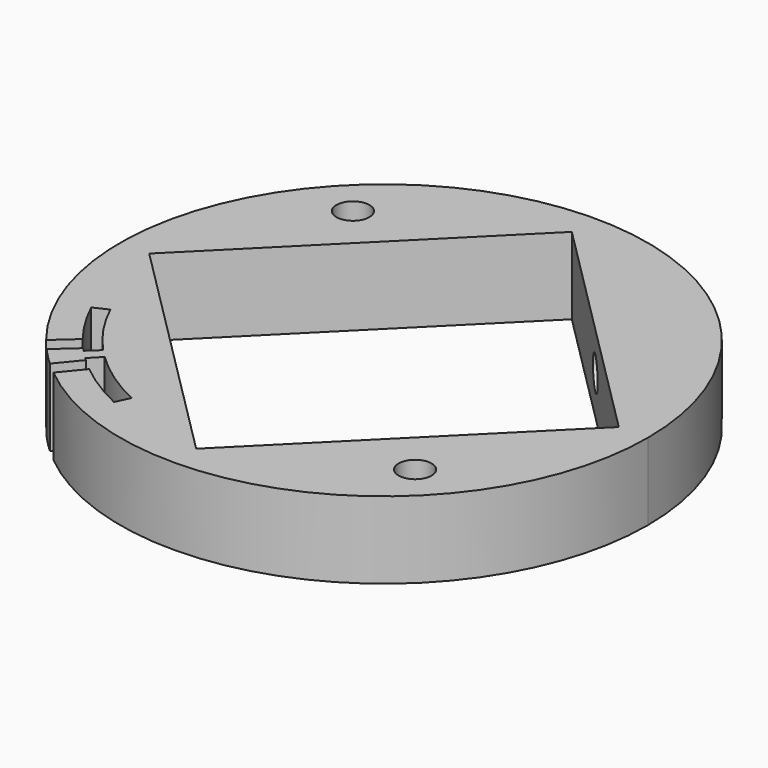
from build123d import *

# Parameters (mm, degrees)
CYLINDER1831_R               = 1.5
CYLINDER1831_DEPTH           = 50
CYLINDER1831_ROLL_ANGLE      = -22.499828
CYLINDER1831_PITCH_ANGLE     = 89.998999
CYLINDER1831_PLACEMENT_ANGLE = 22.499828
CYLINDER1835_R               = 3
CYLINDER1835_DEPTH           = 10
CYLINDER1835_PITCH_ANGLE     = 90
CYLINDER1835_PLACEMENT_ANGLE = 45
CYLINDER1832_R               = 20
CYLINDER1832_DEPTH           = 7
BOX735_W                     = 1.4
BOX735_H                     = 60
BOX735_DEPTH                 = 7
BOX735_PLACEMENT_ANGLE       = 5.7
BOX734_W                     = 1.4
BOX734_H                     = 60
BOX734_DEPTH                 = 7
BOX734_PLACEMENT_ANGLE       = 3
CUT548_PLACEMENT_ANGLE       = 134.9
BOX738_W                     = 60
BOX738_H                     = 60
BOX738_DEPTH                 = 7
BOX738_PLACEMENT_ANGLE       = 1
BOX733_W                     = 60
BOX733_H                     = 60
BOX733_DEPTH                 = 7
BOX733_PLACEMENT_ANGLE       = 2
BOX739_W                     = 120
BOX739_H                     = 60
BOX739_DEPTH                 = 7
TUBE094_R                    = 21.4
TUBE094_R_2                  = 20
TUBE094_DEPTH                = 7
BOX732_W                     = 60
BOX732_H                     = 60
BOX732_DEPTH                 = 7
BOX732_PLACEMENT_ANGLE       = 20
BOX731_W                     = 60
BOX731_H                     = 60
BOX731_DEPTH                 = 7
BOX731_PLACEMENT_ANGLE       = 20
BOX737_W                     = 120
BOX737_H                     = 60
BOX737_DEPTH                 = 7
TUBE093_R                    = 21.4
TUBE093_R_2                  = 20
TUBE093_DEPTH                = 7
CUT552_PLACEMENT_ANGLE       = 135
CYLINDER1834_R               = 1.5
CYLINDER1834_DEPTH           = 20
CYLINDER1834_PLACEMENT_ANGLE = 135
CYLINDER1833_R               = 1.5
CYLINDER1833_DEPTH           = 20
CYLINDER1833_PLACEMENT_ANGLE = 45
BOX736_W                     = 30.2
BOX736_H                     = 30.2
BOX736_DEPTH                 = 100
BOX736_PLACEMENT_ANGLE       = 45
CYLINDER1836_R               = 24
CYLINDER1836_DEPTH           = 7


with BuildPart() as obj1:
    # Cylinder1831 → Cylinder1831 (new body)
    with BuildSketch(Plane.XY):
        Circle(CYLINDER1831_R)
    extrude(amount=CYLINDER1831_DEPTH)


with BuildPart() as obj1_1:
    # Cylinder1831 roll: moved
    add(obj1.part.rotate(Axis((0, 0, 0), (1, 0, 0)), CYLINDER1831_ROLL_ANGLE))


with BuildPart() as obj1_2:
    # Cylinder1831 pitch: moved
    add(obj1_1.part.rotate(Axis((0, 0, 0), (0, 1, 0)), CYLINDER1831_PITCH_ANGLE))


with BuildPart() as obj1_3:
    # Cylinder1831 placement: moved
    add(obj1_2.part.moved(Location((0, 0, -18.5))).rotate(Axis((0, 0, -18.5), (0, 0, 1)), CYLINDER1831_PLACEMENT_ANGLE))


with BuildPart() as obj2:
    # Cylinder1835 → Cylinder1835 (new body)
    with BuildSketch(Plane.XY):
        Circle(CYLINDER1835_R)
    extrude(amount=CYLINDER1835_DEPTH)


with BuildPart() as obj2_1:
    # Cylinder1835 pitch: moved
    add(obj2.part.rotate(Axis((0, 0, 0), (0, 1, 0)), CYLINDER1835_PITCH_ANGLE))


with BuildPart() as obj2_2:
    # Cylinder1835 placement: moved
    add(obj2_1.part.moved(Location((14.849242, 14.849242, -18.5))).rotate(Axis((14.849242, 14.849242, -18.5), (0, 0, 1)), CYLINDER1835_PLACEMENT_ANGLE))


with BuildPart() as obj3:
    # Cylinder1832 → Cylinder1832 (new body)
    with BuildSketch(Plane.XY.offset(-22)):
        Circle(CYLINDER1832_R)
    extrude(amount=CYLINDER1832_DEPTH)


with BuildPart() as krychle735:
    # Box735 → Box735 (new body)
    with BuildSketch(Plane.XY):
        with Locations((0.7, 30)):
            Rectangle(BOX735_W, BOX735_H)
    extrude(amount=BOX735_DEPTH)


with BuildPart() as krychle735_1:
    # Box735 placement: moved
    add(krychle735.part.moved(Location((0, 0, -22))).rotate(Axis((0, 0, -22), (0, 0, 1)), BOX735_PLACEMENT_ANGLE))


with BuildPart() as cut548:
    # Box734 → Box734 (new body)
    with BuildSketch(Plane.XY):
        with Locations((0.7, 30)):
            Rectangle(BOX734_W, BOX734_H)
    extrude(amount=BOX734_DEPTH)


with BuildPart() as cut548_1:
    # Box734 placement: moved
    add(cut548.part.moved(Location((0, 0, -22))).rotate(Axis((0, 0, -22), (0, 0, -1)), BOX734_PLACEMENT_ANGLE))

    # Compound905: union Krychle735
    add(krychle735_1.part)

    # Cut548: cut obj3
    add(obj3.part, mode=Mode.SUBTRACT)


with BuildPart() as cut548_2:
    # Cut548 placement: moved
    add(cut548_1.part.rotate(Axis((0, 0, 0), (0, 0, 1)), CUT548_PLACEMENT_ANGLE))


with BuildPart() as krychle738:
    # Box738 → Box738 (new body)
    with BuildSketch(Plane.XY):
        with Locations((30, 30)):
            Rectangle(BOX738_W, BOX738_H)
    extrude(amount=BOX738_DEPTH)


with BuildPart() as krychle738_1:
    # Box738 placement: moved
    add(krychle738.part.moved(Location((-59.990862, -1.047144, -22))).rotate(Axis((-59.990862, -1.047144, -22), (0, 0, 1)), BOX738_PLACEMENT_ANGLE))


with BuildPart() as compound904:
    # Box733 → Box733 (new body)
    with BuildSketch(Plane.XY):
        with Locations((30, 30)):
            Rectangle(BOX733_W, BOX733_H)
    extrude(amount=BOX733_DEPTH)


with BuildPart() as compound904_1:
    # Box733 placement: moved
    add(compound904.part.moved(Location((0, 0, -22))).rotate(Axis((0, 0, -22), (0, 0, -1)), BOX733_PLACEMENT_ANGLE))

    # Compound904: union Krychle738
    add(krychle738_1.part)


with BuildPart() as krychle739:
    # Box739 → Box739 (new body)
    with BuildSketch(Plane(origin=(-60, -60, -22), x_dir=(1, 0, 0), z_dir=(0, 0, 1))):
        with Locations((60, 30)):
            Rectangle(BOX739_W, BOX739_H)
    extrude(amount=BOX739_DEPTH)


with BuildPart() as cut554:
    # Tube094 → Tube094 (new body)
    with BuildSketch(Plane.XY.offset(-22)):
        Circle(TUBE094_R)
        Circle(TUBE094_R_2, mode=Mode.SUBTRACT)
    extrude(amount=TUBE094_DEPTH)

    # Cut555: cut Krychle739
    add(krychle739.part, mode=Mode.SUBTRACT)

    # Cut554: cut Compound904
    add(compound904_1.part, mode=Mode.SUBTRACT)


with BuildPart() as cut554_1:
    # Cut554 placement: moved
    add(cut554.part.moved(Location((0, 0, -7))))


with BuildPart() as krychle732:
    # Box732 → Box732 (new body)
    with BuildSketch(Plane.XY):
        with Locations((30, 30)):
            Rectangle(BOX732_W, BOX732_H)
    extrude(amount=BOX732_DEPTH)


with BuildPart() as krychle732_1:
    # Box732 placement: moved
    add(krychle732.part.moved(Location((-56.381557, -20.521209, -22))).rotate(Axis((-56.381557, -20.521209, -22), (0, 0, 1)), BOX732_PLACEMENT_ANGLE))


with BuildPart() as compound907:
    # Box731 → Box731 (new body)
    with BuildSketch(Plane.XY):
        with Locations((30, 30)):
            Rectangle(BOX731_W, BOX731_H)
    extrude(amount=BOX731_DEPTH)


with BuildPart() as compound907_1:
    # Box731 placement: moved
    add(compound907.part.moved(Location((0, 0, -22))).rotate(Axis((0, 0, -22), (0, 0, -1)), BOX731_PLACEMENT_ANGLE))

    # Compound907: union Krychle732
    add(krychle732_1.part)


with BuildPart() as krychle737:
    # Box737 → Box737 (new body)
    with BuildSketch(Plane(origin=(-60, -60, -22), x_dir=(1, 0, 0), z_dir=(0, 0, 1))):
        with Locations((60, 30)):
            Rectangle(BOX737_W, BOX737_H)
    extrude(amount=BOX737_DEPTH)


with BuildPart() as cut552:
    # Tube093 → Tube093 (new body)
    with BuildSketch(Plane.XY.offset(-22)):
        Circle(TUBE093_R)
        Circle(TUBE093_R_2, mode=Mode.SUBTRACT)
    extrude(amount=TUBE093_DEPTH)

    # Cut559: cut Krychle737
    add(krychle737.part, mode=Mode.SUBTRACT)

    # Cut556: cut Compound907
    add(compound907_1.part, mode=Mode.SUBTRACT)


with BuildPart() as cut552_1:
    # Cut556 placement: moved
    add(cut552.part.moved(Location((0, 0, -7))))

    # Cut552: cut Cut554
    add(cut554_1.part, mode=Mode.SUBTRACT)


with BuildPart() as cut552_2:
    # Cut552 placement: moved
    add(cut552_1.part.moved(Location((0, 0, 7))).rotate(Axis((0, 0, 7), (0, 0, 1)), CUT552_PLACEMENT_ANGLE))


with BuildPart() as obj4:
    # Cylinder1834 → Cylinder1834 (new body)
    with BuildSketch(Plane.XY):
        Circle(CYLINDER1834_R)
    extrude(amount=CYLINDER1834_DEPTH)


with BuildPart() as obj4_1:
    # Cylinder1834 placement: moved
    add(obj4.part.moved(Location((-14.142136, 14.142136, -30))).rotate(Axis((-14.142136, 14.142136, -30), (0, 0, 1)), CYLINDER1834_PLACEMENT_ANGLE))


with BuildPart() as compound906:
    # Cylinder1833 → Cylinder1833 (new body)
    with BuildSketch(Plane.XY):
        Circle(CYLINDER1833_R)
    extrude(amount=CYLINDER1833_DEPTH)


with BuildPart() as compound906_1:
    # Cylinder1833 placement: moved
    add(compound906.part.moved(Location((14.142136, -14.142136, -30))).rotate(Axis((14.142136, -14.142136, -30), (0, 0, -1)), CYLINDER1833_PLACEMENT_ANGLE))

    # Compound906: union obj4
    add(obj4_1.part)


with BuildPart() as krychle736:
    # Box736 → Box736 (new body)
    with BuildSketch(Plane.XY):
        with Locations((15.1, 15.1)):
            Rectangle(BOX736_W, BOX736_H)
    extrude(amount=BOX736_DEPTH)


with BuildPart() as krychle736_1:
    # Box736 placement: moved
    add(krychle736.part.moved(Location((0, -21.354625, -30))).rotate(Axis((0, -21.354625, -30), (0, 0, 1)), BOX736_PLACEMENT_ANGLE))


with BuildPart() as cut551:
    # Cylinder1836 → Cylinder1836 (new body)
    with BuildSketch(Plane.XY.offset(-22)):
        Circle(CYLINDER1836_R)
    extrude(amount=CYLINDER1836_DEPTH)

    # Cut553: cut Krychle736
    add(krychle736_1.part, mode=Mode.SUBTRACT)

    # Cut558: cut Compound906
    add(compound906_1.part, mode=Mode.SUBTRACT)

    # Cut557: cut Cut552
    add(cut552_2.part, mode=Mode.SUBTRACT)

    # Cut549: cut Cut548
    add(cut548_2.part, mode=Mode.SUBTRACT)

    # Cut550: cut obj2
    add(obj2_2.part, mode=Mode.SUBTRACT)

    # Cut551: cut obj1
    add(obj1_3.part, mode=Mode.SUBTRACT)


solid = cut551.part
